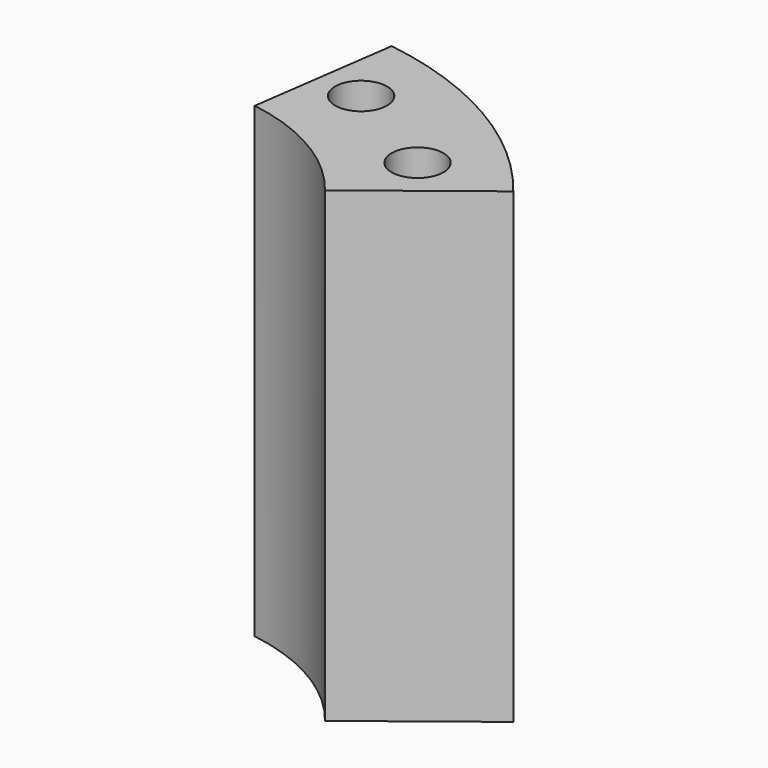
from build123d import *

# Parameters (mm, degrees)
CYLINDER860_R          = 1.5
CYLINDER860_DEPTH      = 60
CYLINDER859_R          = 1.5
CYLINDER859_DEPTH      = 60
BOX336_W               = 20
BOX336_H               = 40
BOX336_DEPTH           = 60
BOX336_PLACEMENT_ANGLE = 22
BOX410_W               = 20
BOX410_H               = 40
BOX410_DEPTH           = 60
BOX410_PLACEMENT_ANGLE = 22
BOX335_W               = 60
BOX335_H               = 40
BOX335_DEPTH           = 60
TUBE037_R              = 20.5
TUBE037_R_2            = 12
TUBE037_DEPTH          = 27
CUT468_PLACEMENT_ANGLE = 30


with BuildPart() as obj1:
    # Cylinder860 → Cylinder860 (new body)
    with BuildSketch(Plane(origin=(-3.5, 16, 0), x_dir=(1, 0, 0), z_dir=(0, 0, 1))):
        Circle(CYLINDER860_R)
    extrude(amount=CYLINDER860_DEPTH)


with BuildPart() as compound565:
    # Cylinder859 → Cylinder859 (new body)
    with BuildSketch(Plane(origin=(3.5, 16, 0), x_dir=(1, 0, 0), z_dir=(0, 0, 1))):
        Circle(CYLINDER859_R)
    extrude(amount=CYLINDER859_DEPTH)

    # Compound565: union obj1
    add(obj1.part)


with BuildPart() as krychle336:
    # Box336 → Box336 (new body)
    with BuildSketch(Plane.XY):
        with Locations((10, 20)):
            Rectangle(BOX336_W, BOX336_H)
    extrude(amount=BOX336_DEPTH)


with BuildPart() as krychle336_1:
    # Box336 placement: moved
    add(krychle336.part.rotate(Axis((0, 0, 0), (0, 0, -1)), BOX336_PLACEMENT_ANGLE))


with BuildPart() as krychle410:
    # Box410 → Box410 (new body)
    with BuildSketch(Plane.XY):
        with Locations((10, 20)):
            Rectangle(BOX410_W, BOX410_H)
    extrude(amount=BOX410_DEPTH)


with BuildPart() as krychle410_1:
    # Box410 placement: moved
    add(krychle410.part.moved(Location((-19.32, -5.18, 0))).rotate(Axis((-19.32, -5.18, 0), (0, 0, 1)), BOX410_PLACEMENT_ANGLE))


with BuildPart() as krychle335:
    # Box335 → Box335 (new body)
    with BuildSketch(Plane(origin=(-30, -35, 0), x_dir=(1, 0, 0), z_dir=(0, 0, 1))):
        with Locations((30, 20)):
            Rectangle(BOX335_W, BOX335_H)
    extrude(amount=BOX335_DEPTH)


with BuildPart() as cut468:
    # Tube037 → Tube037 (new body)
    with BuildSketch(Plane.XY.offset(23)):
        Circle(TUBE037_R)
        Circle(TUBE037_R_2, mode=Mode.SUBTRACT)
    extrude(amount=TUBE037_DEPTH)

    # Cut355: cut Krychle335
    add(krychle335.part, mode=Mode.SUBTRACT)

    # Cut357: cut Krychle410
    add(krychle410_1.part, mode=Mode.SUBTRACT)

    # Cut358: cut Krychle336
    add(krychle336_1.part, mode=Mode.SUBTRACT)

    # Cut468: cut Compound565
    add(compound565.part, mode=Mode.SUBTRACT)


with BuildPart() as cut468_1:
    # Cut468 placement: moved
    add(cut468.part.rotate(Axis((0, 0, 0), (0, 0, -1)), CUT468_PLACEMENT_ANGLE))


solid = cut468_1.part
